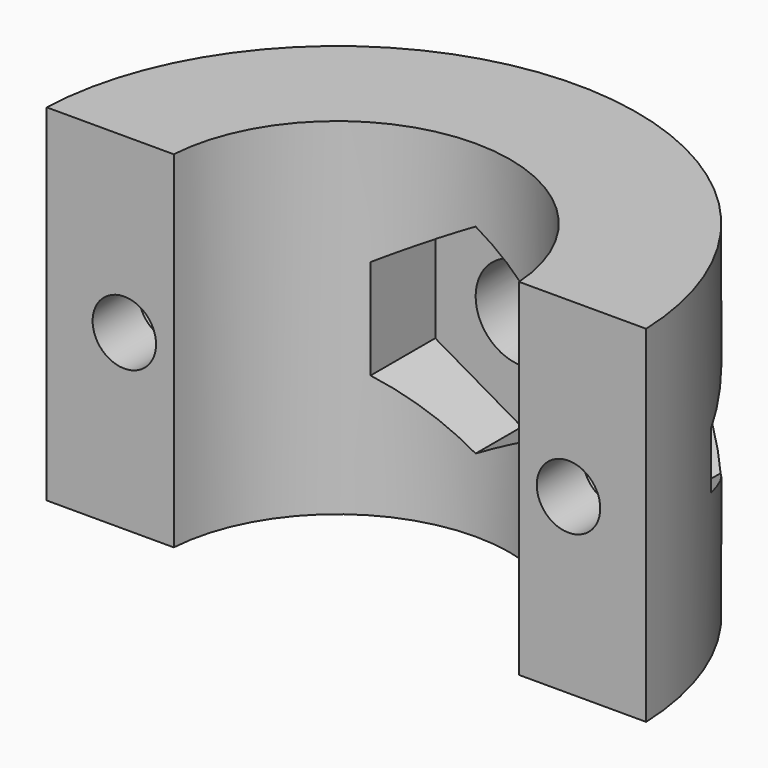
from build123d import *

# Parameters (mm, degrees)
PAD_DEPTH       = 30
SKETCH001_R     = 4
POCKET_DEPTH    = 26.001
POCKET001_DEPTH = 19.001
SKETCH003_R     = 2.75
POCKET002_DEPTH = 25.001
SKETCH004_R     = 4.75
POCKET003_DEPTH = 20.001


with BuildPart() as part:
    # Sketch → Pad (new body)
    with BuildSketch(Plane.XY):
        with BuildLine():
            Line((-25.980762, 0), (-14.96663, 0))
            ThreePointArc((14.96663, 0), (0, 14), (-14.96663, 0))
            Line((14.96663, 0), (25.980762, 0))
            ThreePointArc((25.980762, 0), (0, 25), (-25.980762, 0))
        make_face()
    extrude(amount=PAD_DEPTH)

    # Sketch001 (on DatumPlane) → Pocket (cut, through all)
    with BuildSketch(Plane(origin=(0, 26, 0), x_dir=(-1, 0, 0), z_dir=(0, 1, 0))):
        with Locations((0, 15)):
            Circle(SKETCH001_R)
    extrude(amount=-POCKET_DEPTH, mode=Mode.SUBTRACT)

    # Sketch002 (on DatumPlane) → Pocket001 (cut, through all)
    with BuildSketch(Plane(origin=(0, 19, 0), x_dir=(-1, 0, 0), z_dir=(0, 1, 0))):
        Polygon((0, 23.660254), (-7.5, 19.330127), (-7.5, 10.669873), (0, 6.339746), (7.5, 10.669873), (7.5, 19.330127), align=None)
    extrude(amount=-POCKET001_DEPTH, mode=Mode.SUBTRACT)

    # Sketch003 (on DatumPlane) → Pocket002 (cut, through all)
    with BuildSketch(Plane.XZ):
        with Locations((19.25, 15)):
            Circle(SKETCH003_R)
        with Locations((-19.25, 15)):
            Circle(SKETCH003_R)
    extrude(amount=-POCKET002_DEPTH, mode=Mode.SUBTRACT)

    # Sketch004 (on DatumPlane) → Pocket003 (cut, through all)
    with BuildSketch(Plane(origin=(0, 5, 0), x_dir=(-1, 0, 0), z_dir=(0, 1, 0))):
        with Locations((19.25, 15)):
            Circle(SKETCH004_R)
        Polygon((-19.25, 19.907477), (-23.5, 17.453739), (-23.5, 12.546261), (-19.25, 10.092523), (-15, 12.546261), (-15, 17.453739), align=None)
    extrude(amount=POCKET003_DEPTH, mode=Mode.SUBTRACT)


solid = part.part
